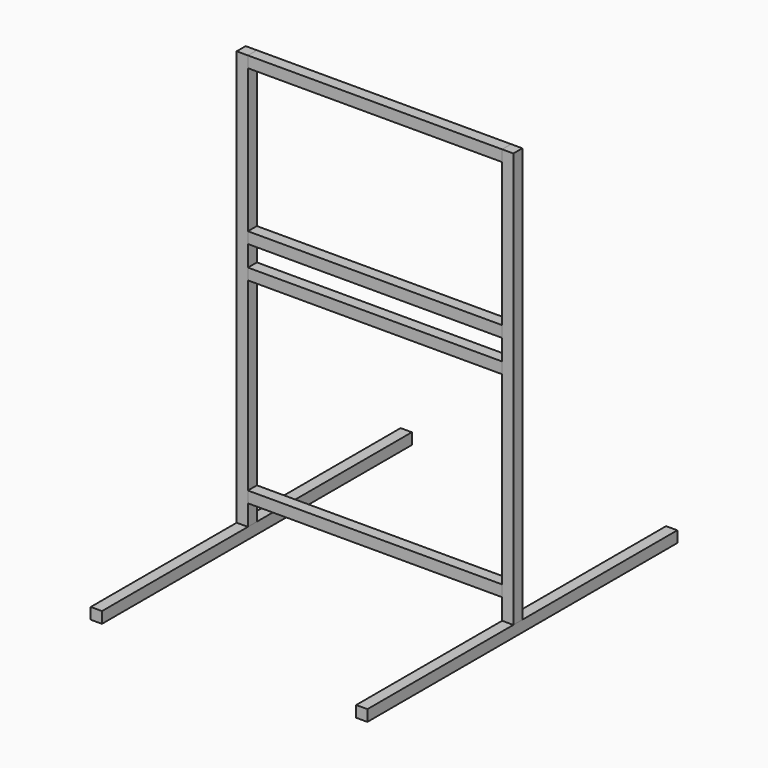
from build123d import *

# Parameters (mm, degrees)
F0_W          = 41.275
F0_H          = 1524
F1_DEPTH      = 41.275
F2_W          = 933.45
F2_H          = 41.275
F3_DEPTH      = 41.275
F4_W          = 41.275
F4_H          = 41.275
F5_DEPTH      = 711.2
F5_DEPTH_BACK = 711.2


with BuildPart() as f1:
    # F0 (on Front) → F1 (new body)
    with BuildSketch(Plane.XZ):
        with Locations((-487.3625, 0)):
            Rectangle(F0_W, F0_H)
        with Locations((487.3625, 0)):
            Rectangle(F0_W, F0_H)
    extrude(amount=F1_DEPTH)


with BuildPart() as f3:
    # F2 (on Front) → F3 (new body)
    with BuildSketch(Plane.XZ):
        with Locations((0, 741.3625)):
            Rectangle(F2_W, F2_H)
        with Locations((0, 173.0375)):
            Rectangle(F2_W, F2_H)
        with Locations((0, 55.5625)):
            Rectangle(F2_W, F2_H)
        with Locations((0, -665.1625)):
            Rectangle(F2_W, F2_H)
    extrude(amount=F3_DEPTH)


with BuildPart() as f5:
    # F4 (on Front) → F5 (new body, two sides)
    with BuildSketch(Plane.XZ) as f5_sk:
        with Locations((-487.3625, -782.6375)):
            Rectangle(F4_W, F4_H)
        with Locations((487.3625, -782.6375)):
            Rectangle(F4_W, F4_H)
    extrude(amount=F5_DEPTH)
    extrude(f5_sk.sketch, amount=-F5_DEPTH_BACK)


solid = Compound([f1.part, f3.part, f5.part])
